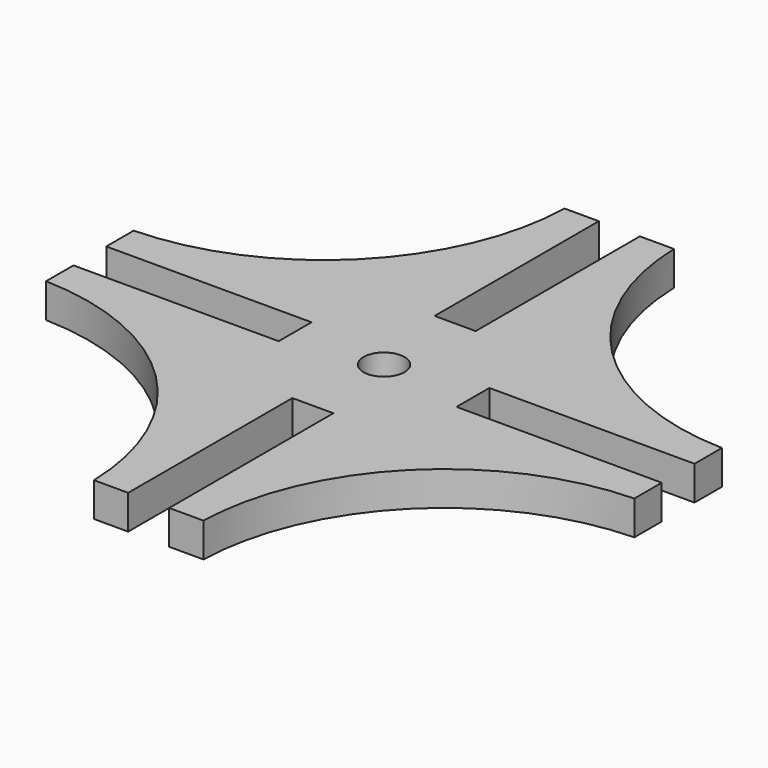
from build123d import *

# Parameters (mm, degrees)
SKETCH_R  = 3
PAD_DEPTH = 5


with BuildPart() as part:
    # Sketch → Pad (new body)
    with BuildSketch(Plane.XY):
        with BuildLine():
            Line((3, 43), (3, 13))
            Line((3, 13), (-3, 13))
            Line((-3, 13), (-3, 43))
            Line((-3, 43), (-8, 43))
            ThreePointArc((-43, 8), (-18.530637, 18.530637), (-8, 43))
            Line((-43, 3), (-43, 8))
            Line((-13, 3), (-43, 3))
            Line((-13, -3), (-13, 3))
            Line((-43, -3), (-13, -3))
            Line((-43, -3), (-43, -8))
            ThreePointArc((-8, -43), (-18.530637, -18.530637), (-43, -8))
            Line((-3, -43), (-8, -43))
            Line((-3, -43), (-3, -13))
            Line((-3, -13), (3, -13))
            Line((3, -13), (3, -43))
            Line((3, -43), (8, -43))
            ThreePointArc((43, -8), (18.530637, -18.530637), (8, -43))
            Line((43, -3), (43, -8))
            Line((13, -3), (43, -3))
            Line((13, 3), (13, -3))
            Line((13, 3), (43, 3))
            Line((43, 3), (43, 8))
            ThreePointArc((8, 43), (18.530637, 18.530637), (43, 8))
            Line((3, 43), (8, 43))
        make_face()
        Circle(SKETCH_R, mode=Mode.SUBTRACT)
    extrude(amount=PAD_DEPTH)


solid = part.part
